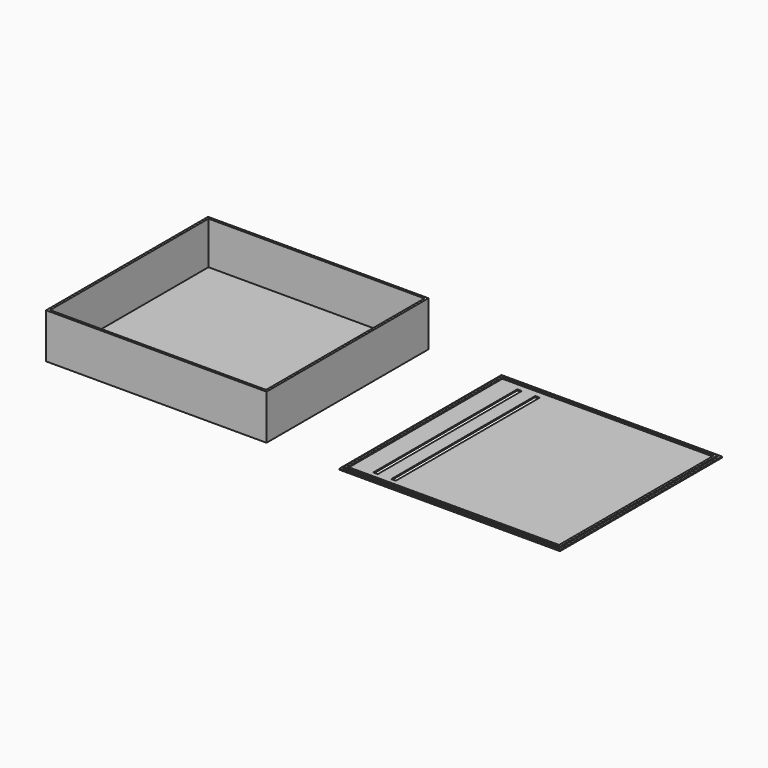
from build123d import *

# Parameters (mm, degrees)
F0_W     = 98
F0_H     = 90
F0_W_2   = 96
F0_H_2   = 88
F1_DEPTH = 20
F2_DEPTH = 1
F3_DEPTH = 0.5
F0_W_3   = 2
F0_H_3   = 80
F4_DEPTH = 1
F5_W     = 94
F5_H     = 86
F5_W_2   = 2
F5_H_2   = 80
F6_DEPTH = 0.5


with BuildPart() as f1:
    # F0 (on Top) → F1 (new body)
    with BuildSketch(Plane.XY):
        with Locations((-21.652328, 13.399996)):
            Rectangle(F0_W, F0_H)
        with Locations((-21.652328, 13.399996)):
            Rectangle(F0_W_2, F0_H_2, mode=Mode.SUBTRACT)
    extrude(amount=F1_DEPTH)

    # F0 (on Top) → F2 (join)
    with BuildSketch(Plane.XY):
        with Locations((-21.652328, 13.399996)):
            Rectangle(F0_W_2, F0_H_2)
    extrude(amount=F2_DEPTH)


with BuildPart() as f3:
    # F0 (on Top) → F3 (new body)
    with BuildSketch(Plane.XY):
        with Locations((108.812911, 13.399996)):
            Rectangle(F0_W, F0_H)
        with Locations((108.812911, 13.399996)):
            Rectangle(F0_W_2, F0_H_2, mode=Mode.SUBTRACT)
    extrude(amount=F3_DEPTH)

    # F0 (on Top) → F4 (join)
    with BuildSketch(Plane.XY):
        with Locations((108.812911, 13.399996)):
            Rectangle(F0_W_2, F0_H_2)
        with Locations((71.812911, 13.399996)):
            Rectangle(F0_W_3, F0_H_3, mode=Mode.SUBTRACT)
        with Locations((79.812911, 13.399996)):
            Rectangle(F0_W_3, F0_H_3, mode=Mode.SUBTRACT)
    extrude(amount=F4_DEPTH)

    # F5 (on face) → F6 (cut)
    with BuildSketch(Plane.XY.offset(1)):
        with Locations((108.812911, 13.399996)):
            Rectangle(F5_W, F5_H)
        with Locations((71.812911, 13.399996)):
            Rectangle(F5_W_2, F5_H_2, mode=Mode.SUBTRACT)
        with Locations((79.812911, 13.399996)):
            Rectangle(F5_W_2, F5_H_2, mode=Mode.SUBTRACT)
    extrude(amount=-F6_DEPTH, mode=Mode.SUBTRACT)


solid = Compound([f1.part, f3.part])
